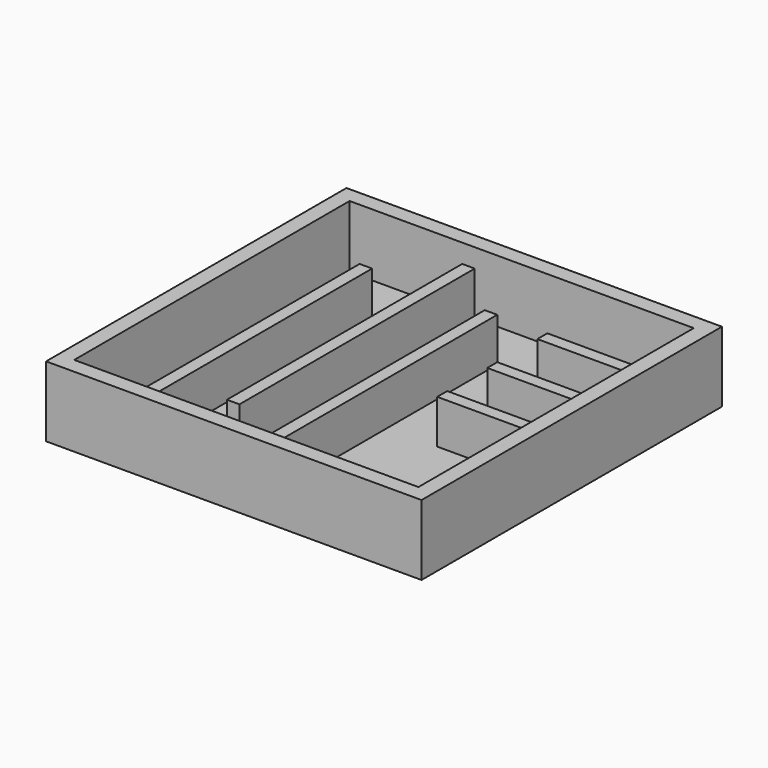
from build123d import *

# Parameters (mm, degrees)
F0_W      = 38.1
F0_H      = 38.1
F1_DEPTH  = 0.79375
F2_W      = 38.1
F2_H      = 38.1
F2_W_2    = 34.925
F2_H_2    = 34.925
F3_DEPTH  = 6.35
F4_W      = 1.27
F4_H      = 29.845
F4_W_2    = 10.795
F4_H_2    = 1.27
F5_DEPTH  = 4.445
F6_W      = 10.795
F6_H      = 1.27
F7_DEPTH  = 4.445
F8_R      = 1.27
F9_DEPTH  = 0.396875
F10_R     = 1.27
F11_DEPTH = 0.396875
F12_DEPTH = 0.396875


with BuildPart() as f1:
    # F0 (on Top) → F1 (new body)
    with BuildSketch(Plane.XY):
        with Locations((0.218246, 6.881682)):
            Rectangle(F0_W, F0_H)
    extrude(amount=F1_DEPTH)

    # F2 (on face) → F3 (join)
    with BuildSketch(Plane.XY.offset(0.79375)):
        with Locations((0.218246, 6.881682)):
            Rectangle(F2_W, F2_H)
        with Locations((0.218246, 6.881682)):
            Rectangle(F2_W_2, F2_H_2, mode=Mode.SUBTRACT)
    extrude(amount=F3_DEPTH)

    # F4 (on face) → F5 (join)
    with BuildSketch(Plane.XY.offset(0.79375)):
        with Locations((-11.529254, 4.341682)):
            Rectangle(F4_W, F4_H)
        with Locations((-5.179254, 9.421682)):
            Rectangle(F4_W, F4_H)
        with Locations((1.170746, 4.341682)):
            Rectangle(F4_W, F4_H)
        with Locations((12.283246, 12.279182)):
            Rectangle(F4_W_2, F4_H_2)
        with Locations((12.283246, 18.629182)):
            Rectangle(F4_W_2, F4_H_2)
    extrude(amount=F5_DEPTH)

    # F6 (on face) → F7 (join)
    with BuildSketch(Plane.XY.offset(0.79375)):
        with Locations((12.283246, 5.929182)):
            Rectangle(F6_W, F6_H)
    extrude(amount=F7_DEPTH)

    # F8 (on face) → F9 (cut)
    with BuildSketch(Plane.XY.offset(0.79375)):
        with Locations((-14.704254, -6.816329)):
            Circle(F8_R)
    extrude(amount=F9_DEPTH, mode=Mode.SUBTRACT)

    # F10 (on face) → F11 (cut)
    with BuildSketch(Plane.XY.offset(0.79375)):
        with Locations((15.417561, 9.104182)):
            Circle(F10_R)
    extrude(amount=-F11_DEPTH, mode=Mode.SUBTRACT)

    # F8 (on face) → F12 (cut)
    with BuildSketch(Plane.XY.offset(0.79375)):
        with Locations((-14.704254, -6.816329)):
            Circle(F8_R)
    extrude(amount=-F12_DEPTH, mode=Mode.SUBTRACT)


solid = f1.part
